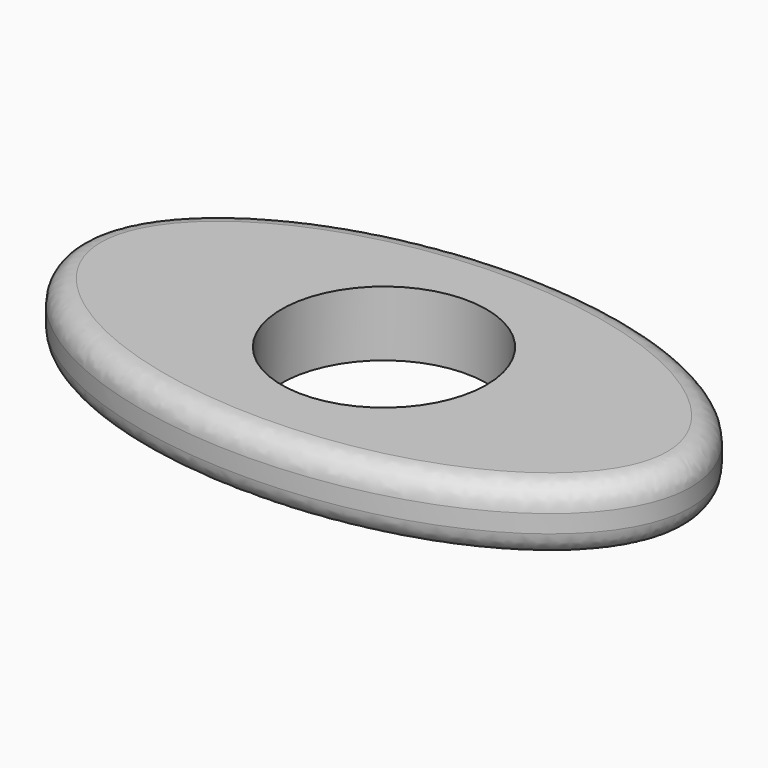
from build123d import *

# Parameters (mm, degrees)
F0_R     = 11.025
F1_DEPTH = 7
F2_R     = 2.54


with BuildPart() as f1:
    # F0 (on Top) → F1 (new body)
    with BuildSketch(Plane.XY):
        with BuildLine():
            add(Edge.make_bspline(
                [(33.02, 0), (33.02, 32.995568), (-16.51, 16.497784), (-66.04, 0), (-16.51, -16.497784), (33.02, -32.995568), (33.02, 0)],
                knots=[0, 0, 0, 2.094395, 2.094395, 4.18879, 4.18879, 6.283185, 6.283185, 6.283185], degree=2, weights=[1, 0.5, 1, 0.5, 1, 0.5, 1]))
        make_face()
        Circle(F0_R, mode=Mode.SUBTRACT)
    extrude(amount=F1_DEPTH)

    # F2
    f2_edges = [f1.edges().sort_by_distance(p)[0] for p in [
        (-33.02, 1e-06, 7),
        (-33.02, 1e-06, 0),
    ]]
    fillet(f2_edges, radius=F2_R)


solid = f1.part
